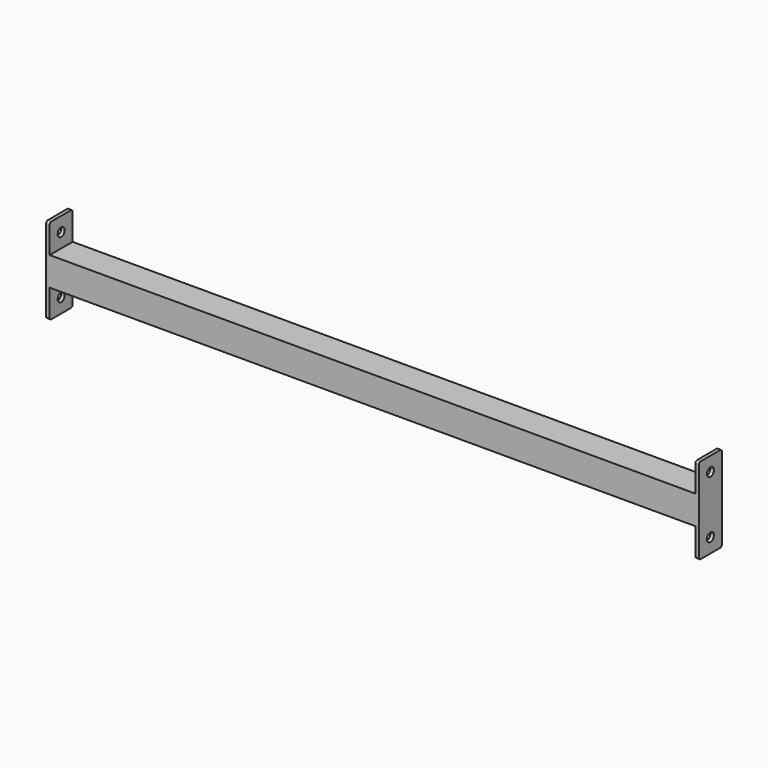
from build123d import *

# Parameters (mm, degrees)
F0_W     = 40
F0_H     = 40
F0_W_2   = 35
F0_H_2   = 35
F1_DEPTH = 450
F2_R     = 6
F3_DEPTH = 5


with BuildPart() as f1:
    # F0 (on Right) → F1 (new body, symmetric)
    with BuildSketch(Plane.YZ):
        Rectangle(F0_W, F0_H)
        Rectangle(F0_W_2, F0_H_2, mode=Mode.SUBTRACT)
    extrude(amount=F1_DEPTH, both=True)

    # F2 (on face) → F3 (join)
    with BuildSketch(Plane.YZ.offset(450)):
        with BuildLine():
            Line((20, -20), (20, 20))
            Line((20, 20), (-20, 20))
            Line((-20, 20), (-20, -20))
            Line((-20, -20), (-20, -57))
            ThreePointArc((-20, -57), (-19.1213203436, -59.1213203436), (-17, -60))
            Line((-17, -60), (17, -60))
            ThreePointArc((17, -60), (19.1213203436, -59.1213203436), (20, -57))
            Line((20, -57), (20, -20))
        make_face()
        with Locations((0, -40)):
            Circle(F2_R, mode=Mode.SUBTRACT)
        with BuildLine():
            Line((-20, 20), (20, 20))
            Line((20, 20), (20, 57))
            ThreePointArc((20, 57), (19.1213203436, 59.1213203436), (17, 60))
            Line((17, 60), (-17, 60))
            ThreePointArc((-17, 60), (-19.1213203436, 59.1213203436), (-20, 57))
            Line((-20, 57), (-20, 20))
        make_face()
        with Locations((0, 40)):
            Circle(F2_R, mode=Mode.SUBTRACT)
    extrude(amount=F3_DEPTH)

    # F4: F1 across plane


with BuildPart() as f1_1:
    add(f1.part)
    add(f1.part.mirror(Plane.YZ))


solid = f1_1.part
